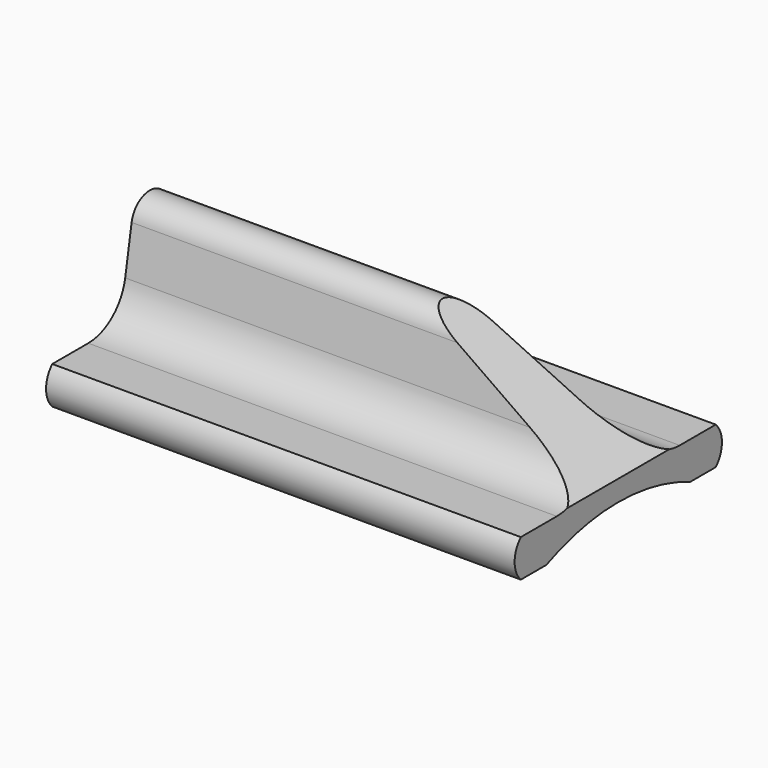
from build123d import *

# Parameters (mm, degrees)
F1_DEPTH      = 25
F2_R          = 2.5
F4_DEPTH      = 6.9152135624
F4_DEPTH_BACK = 6.9152135624


with BuildPart() as f1:
    # F0 (on Right) → F1 (new body)
    with BuildSketch(Plane.YZ):
        with BuildLine():
            Line((-6.5, 0), (-4.7958315233, 0))
            ThreePointArc((-4.7958315233, 0), (0, 1), (4.7958315233, 0))
            Line((4.7958315233, 0), (6.5, 0))
            ThreePointArc((6.5, 0), (6.9142135624, 1), (6.5, 2))
            Line((6.5, 2), (2, 2))
            Line((2, 2), (1.2065285868, 6.5))
            ThreePointArc((1.2065285868, 6.5), (0, 7.5123976922), (-1.2065285868, 6.5))
            Line((-1.2065285868, 6.5), (-2, 2))
            Line((-2, 2), (-6.5, 2))
            ThreePointArc((-6.5, 2), (-6.9142135624, 1), (-6.5, 0))
        make_face()
    extrude(amount=F1_DEPTH)

    # F2
    f2_edges = [f1.edges().sort_by_distance(p)[0] for p in [
        (12.5, 2, 2),
        (12.5, -2, 2),
    ]]
    fillet(f2_edges, radius=F2_R)

    # F3 (on Front) → F4 (cut, two sides)
    with BuildSketch(Plane.XZ) as f4_sk:
        Polygon((8, 11.9143333792), (30, -0.787372543), (30, 11.9143333792), align=None)
    extrude(amount=-F4_DEPTH, mode=Mode.SUBTRACT)
    extrude(f4_sk.sketch, amount=F4_DEPTH_BACK, mode=Mode.SUBTRACT)


solid = f1.part
